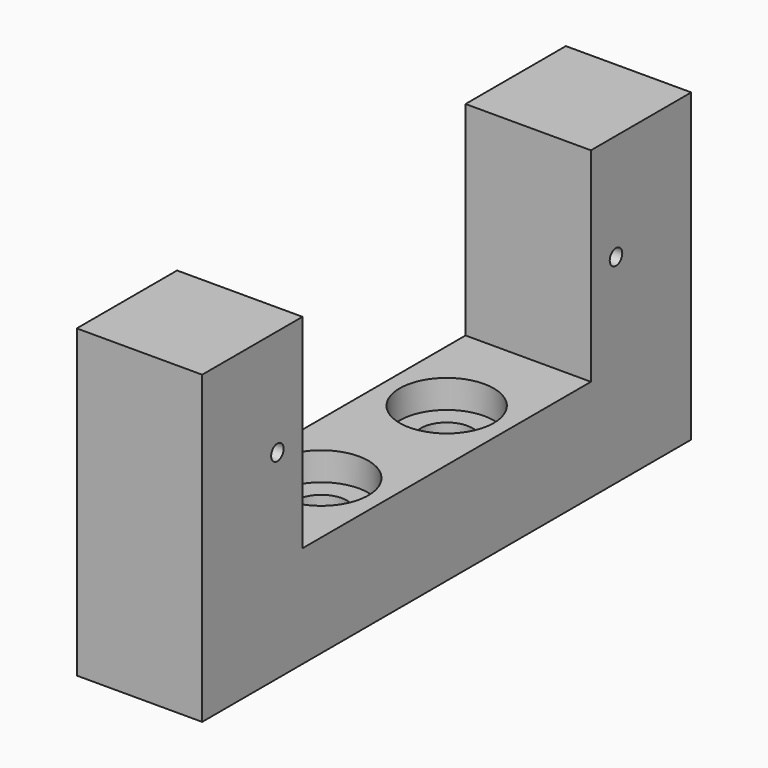
from build123d import *

# Parameters (mm, degrees)
PAD003_DEPTH            = 8
HOLE_D                  = 3.3
HOLE_DEPTH              = 25
HOLE_CBORE_D            = 6
HOLE_CBORE_DEPTH        = 1.8
SKETCH010_R             = 0.5
POCKET004_DEPTH         = 8.001
SKETCH008_R             = 2.5
POCKET005_DEPTH         = 2.5
BODY003_PITCH_ANGLE     = 90
BODY003_PLACEMENT_ANGLE = -180


with BuildPart() as part:
    # Sketch009 → Pad003 (new body)
    with BuildSketch(Plane.XY):
        Polygon((0, 19.5), (0, 11.5), (13, 11.5), (13, -11.5), (0, -11.5), (0, -19.5), (19.5, -19.5), (19.5, 19.5), align=None)
    extrude(amount=PAD003_DEPTH)

    # Hole
    with Locations(Plane(origin=(13, 0, 0), x_dir=(0, -1, 0), z_dir=(-1, 0, 0))):
        with Locations((-5, 4), (5, 4)):
            CounterBoreHole(HOLE_D / 2, HOLE_CBORE_D / 2, HOLE_CBORE_DEPTH, depth=HOLE_DEPTH)

    # Sketch010 (on Face5 of Hole) → Pocket004 (cut, through all)
    with BuildSketch(Plane.XY.offset(8)):
        with Locations((6.8, 13.5)):
            Circle(SKETCH010_R)
        with Locations((6.8, -13.5)):
            Circle(SKETCH010_R)
    extrude(amount=-POCKET004_DEPTH, mode=Mode.SUBTRACT)

    # Sketch008 (on Face6 of Pocket004) → Pocket005 (cut)
    with BuildSketch(Plane.YZ.offset(19.5)):
        with Locations((-5, 4)):
            Circle(SKETCH008_R)
        with Locations((5, 4)):
            Circle(SKETCH008_R)
    extrude(amount=-POCKET005_DEPTH, mode=Mode.SUBTRACT)


with BuildPart() as part_1:
    # Body003 pitch: moved
    add(part.part.rotate(Axis((0, 0, 0), (0, 1, 0)), BODY003_PITCH_ANGLE))


with BuildPart() as part_2:
    # Body003 placement: moved
    add(part_1.part.moved(Location((30, 7, 22))).rotate(Axis((30, 7, 22), (0, 0, 1)), BODY003_PLACEMENT_ANGLE))


solid = part_2.part
